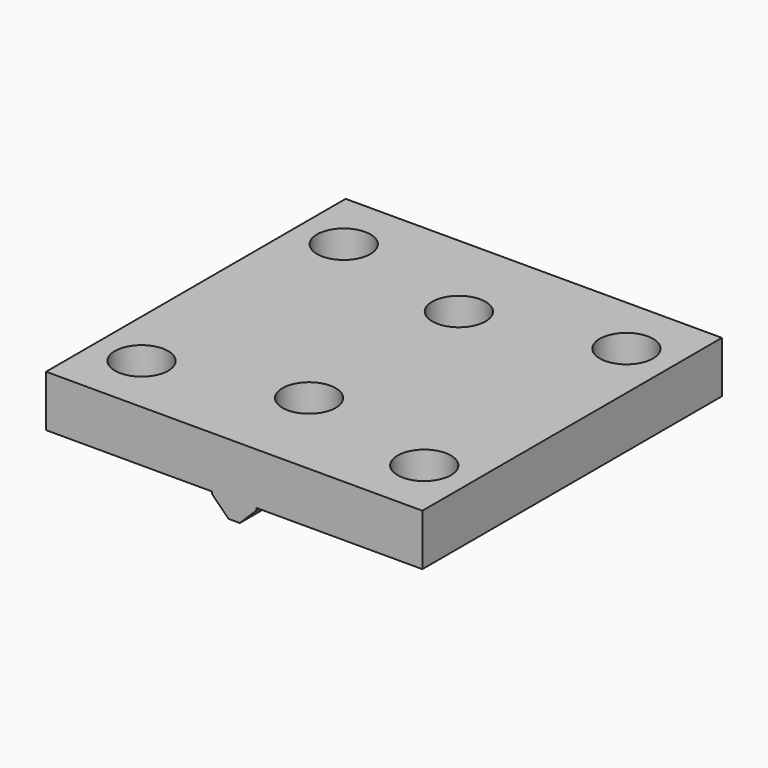
from build123d import *

# Parameters (mm, degrees)
F0_W      = 40.2
F0_H      = 40
F1_DEPTH  = 5.5
F2_R      = 2.85
F3_DEPTH  = 3.5
F4_R      = 1.6
F5_DEPTH  = 25
F6_W      = 4.8
F6_H      = 40
F7_DEPTH  = 2
F8_SIZE   = 1.8
F9_R      = 1.6
F10_DEPTH = 25
F11_R     = 2.85
F12_DEPTH = 3.5


with BuildPart() as f1:
    # F0 (on Top) → F1 (new body)
    with BuildSketch(Plane.XY):
        with Locations((20.1, 20)):
            Rectangle(F0_W, F0_H)
    extrude(amount=F1_DEPTH)

    # F2 (on face) → F3 (cut)
    with BuildSketch(Plane.XY.offset(5.5)):
        with Locations((35.2, 6.5)):
            Circle(F2_R)
        with Locations((35.2, 33.5)):
            Circle(F2_R)
        with Locations((5, 33.5)):
            Circle(F2_R)
        with Locations((5, 6.5)):
            Circle(F2_R)
    extrude(amount=-F3_DEPTH, mode=Mode.SUBTRACT)

    # F4 (on face) → F5 (cut)
    with BuildSketch(Plane.XY.offset(5.5)):
        with Locations((35.2, 33.5)):
            Circle(F4_R)
        with Locations((35.2, 6.5)):
            Circle(F4_R)
        with Locations((5, 33.5)):
            Circle(F4_R)
        with Locations((5, 6.5)):
            Circle(F4_R)
    extrude(amount=-F5_DEPTH, mode=Mode.SUBTRACT)

    # F6 (on face) → F7 (join)
    with BuildSketch(Plane(origin=(0, 0, 0), x_dir=(1, 0, 0), z_dir=(0, 0, -1))):
        with Locations((20.1, -20)):
            Rectangle(F6_W, F6_H)
    extrude(amount=F7_DEPTH)

    # F8
    f8_edges = [f1.edges().sort_by_distance(p)[0] for p in [
        (17.7, 20, -2),
        (22.5, 20, -2),
    ]]
    chamfer(f8_edges, length=F8_SIZE)

    # F9 (on face) → F10 (cut)
    with BuildSketch(Plane(origin=(0, 0, -2), x_dir=(1, 0, 0), z_dir=(0, 0, -1))):
        with Locations((20.1, -30)):
            Circle(F9_R)
        with Locations((20.1, -10)):
            Circle(F9_R)
    extrude(amount=-F10_DEPTH, mode=Mode.SUBTRACT)

    # F11 (on face) → F12 (cut)
    with BuildSketch(Plane.XY.offset(5.5)):
        with Locations((20.1, 30)):
            Circle(F11_R)
        with Locations((20.1, 10)):
            Circle(F11_R)
    extrude(amount=-F12_DEPTH, mode=Mode.SUBTRACT)


solid = f1.part
